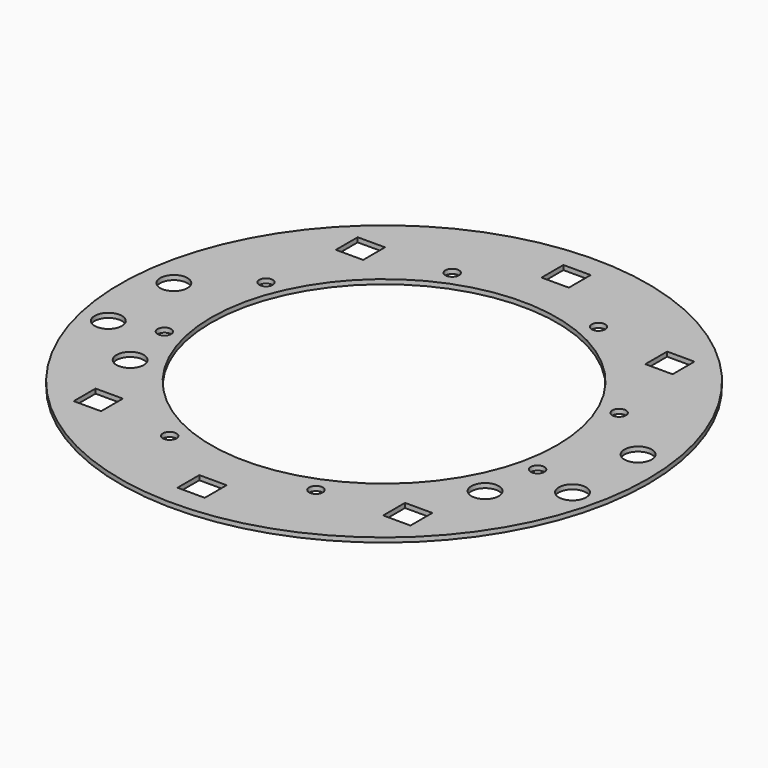
from build123d import *

# Parameters (mm, degrees)
CYLINDER531_R               = 3
CYLINDER531_DEPTH           = 7
CYLINDER530_R               = 3
CYLINDER530_DEPTH           = 7
CYLINDER725_R               = 1.5
CYLINDER725_DEPTH           = 100
CYLINDER725_PLACEMENT_ANGLE = 100
CYLINDER730_R               = 1.5
CYLINDER730_DEPTH           = 100
CYLINDER730_PLACEMENT_ANGLE = 135
CYLINDER733_R               = 1.5
CYLINDER733_DEPTH           = 100
CYLINDER731_R               = 1.5
CYLINDER731_DEPTH           = 100
CYLINDER731_PLACEMENT_ANGLE = 225
CYLINDER722_R               = 1.5
CYLINDER722_DEPTH           = 100
CYLINDER732_R               = 1.5
CYLINDER732_DEPTH           = 100
CYLINDER732_PLACEMENT_ANGLE = 55
CYLINDER729_R               = 1.5
CYLINDER729_DEPTH           = 100
CYLINDER727_R               = 1.5
CYLINDER727_DEPTH           = 100
CYLINDER727_PLACEMENT_ANGLE = 45
BOX154_W                    = 6
BOX154_H                    = 6
BOX154_DEPTH                = 10
BOX151_W                    = 6
BOX151_H                    = 6
BOX151_DEPTH                = 10
BOX155_W                    = 6
BOX155_H                    = 6
BOX155_DEPTH                = 10
BOX153_W                    = 6
BOX153_H                    = 6
BOX153_DEPTH                = 10
BOX156_W                    = 6
BOX156_H                    = 6
BOX156_DEPTH                = 10
BOX152_W                    = 6
BOX152_H                    = 6
BOX152_DEPTH                = 10
CYLINDER407_R               = 3
CYLINDER407_DEPTH           = 7
CYLINDER405_R               = 3
CYLINDER405_DEPTH           = 7
CYLINDER404_R               = 3
CYLINDER404_DEPTH           = 7
CYLINDER406_R               = 3
CYLINDER406_DEPTH           = 7
TUBE020_R                   = 58
TUBE020_R_2                 = 38
TUBE020_DEPTH               = 1


with BuildPart() as obj1:
    # Cylinder531 → Cylinder531 (new body)
    with BuildSketch(Plane(origin=(39, -21, 50), x_dir=(1, 0, 0), z_dir=(0, 0, 1))):
        Circle(CYLINDER531_R)
    extrude(amount=CYLINDER531_DEPTH)


with BuildPart() as compound705:
    # Cylinder530 → Cylinder530 (new body)
    with BuildSketch(Plane(origin=(-39, -21, 50), x_dir=(1, 0, 0), z_dir=(0, 0, 1))):
        Circle(CYLINDER530_R)
    extrude(amount=CYLINDER530_DEPTH)

    # Compound705: union obj1
    add(obj1.part)


with BuildPart() as compound705_1:
    # Compound705 placement: moved
    add(compound705.part.moved(Location((0, 0, -25))))


with BuildPart() as obj2:
    # Cylinder725 → Cylinder725 (new body)
    with BuildSketch(Plane.XY):
        Circle(CYLINDER725_R)
    extrude(amount=CYLINDER725_DEPTH)


with BuildPart() as obj2_1:
    # Cylinder725 placement: moved
    add(obj2.part.moved(Location((41.004432, -9.090464, 0))).rotate(Axis((41.004432, -9.090464, 0), (0, 0, 1)), CYLINDER725_PLACEMENT_ANGLE))


with BuildPart() as obj3:
    # Cylinder730 → Cylinder730 (new body)
    with BuildSketch(Plane.XY):
        Circle(CYLINDER730_R)
    extrude(amount=CYLINDER730_DEPTH)


with BuildPart() as obj3_1:
    # Cylinder730 placement: moved
    add(obj3.part.moved(Location((38.80294, 16.072704, 0))).rotate(Axis((38.80294, 16.072704, 0), (0, 0, 1)), CYLINDER730_PLACEMENT_ANGLE))


with BuildPart() as obj4:
    # Cylinder733 → Cylinder733 (new body)
    with BuildSketch(Plane(origin=(16.072704, 38.80294, 0), x_dir=(-1, 0, 0), z_dir=(0, 0, 1))):
        Circle(CYLINDER733_R)
    extrude(amount=CYLINDER733_DEPTH)


with BuildPart() as obj5:
    # Cylinder731 → Cylinder731 (new body)
    with BuildSketch(Plane.XY):
        Circle(CYLINDER731_R)
    extrude(amount=CYLINDER731_DEPTH)


with BuildPart() as obj5_1:
    # Cylinder731 placement: moved
    add(obj5.part.moved(Location((-16.072704, 38.80294, 0))).rotate(Axis((-16.072704, 38.80294, 0), (0, 0, 1)), CYLINDER731_PLACEMENT_ANGLE))


with BuildPart() as obj6:
    # Cylinder722 → Cylinder722 (new body)
    with BuildSketch(Plane(origin=(-38.80294, 16.072704, 0), x_dir=(0, -1, 0), z_dir=(0, 0, 1))):
        Circle(CYLINDER722_R)
    extrude(amount=CYLINDER722_DEPTH)


with BuildPart() as obj7:
    # Cylinder732 → Cylinder732 (new body)
    with BuildSketch(Plane.XY):
        Circle(CYLINDER732_R)
    extrude(amount=CYLINDER732_DEPTH)


with BuildPart() as obj7_1:
    # Cylinder732 placement: moved
    add(obj7.part.moved(Location((-41.004432, -9.090464, 0))).rotate(Axis((-41.004432, -9.090464, 0), (0, 0, -1)), CYLINDER732_PLACEMENT_ANGLE))


with BuildPart() as obj8:
    # Cylinder729 → Cylinder729 (new body)
    with BuildSketch(Plane(origin=(-16.072704, -38.80294, 0), x_dir=(1, 0, 0), z_dir=(0, 0, 1))):
        Circle(CYLINDER729_R)
    extrude(amount=CYLINDER729_DEPTH)


with BuildPart() as compound702:
    # Cylinder727 → Cylinder727 (new body)
    with BuildSketch(Plane.XY):
        Circle(CYLINDER727_R)
    extrude(amount=CYLINDER727_DEPTH)


with BuildPart() as compound702_1:
    # Cylinder727 placement: moved
    add(compound702.part.moved(Location((16.072704, -38.80294, 0))).rotate(Axis((16.072704, -38.80294, 0), (0, 0, 1)), CYLINDER727_PLACEMENT_ANGLE))

    # Compound702: union obj2, obj3, obj4, obj5, obj6, obj7, obj8
    add(obj2_1.part)
    add(obj3_1.part)
    add(obj4.part)
    add(obj5_1.part)
    add(obj6.part)
    add(obj7_1.part)
    add(obj8.part)


with BuildPart() as krychle154:
    # Box154 → Box154 (new body)
    with BuildSketch(Plane(origin=(-37, -39, 40), x_dir=(1, 0, 0), z_dir=(0, 0, 1))):
        with Locations((3, 3)):
            Rectangle(BOX154_W, BOX154_H)
    extrude(amount=BOX154_DEPTH)


with BuildPart() as krychle151:
    # Box151 → Box151 (new body)
    with BuildSketch(Plane(origin=(-3, -53, 40), x_dir=(1, 0, 0), z_dir=(0, 0, 1))):
        with Locations((3, 3)):
            Rectangle(BOX151_W, BOX151_H)
    extrude(amount=BOX151_DEPTH)


with BuildPart() as krychle155:
    # Box155 → Box155 (new body)
    with BuildSketch(Plane(origin=(31, 33, 40), x_dir=(1, 0, 0), z_dir=(0, 0, 1))):
        with Locations((3, 3)):
            Rectangle(BOX155_W, BOX155_H)
    extrude(amount=BOX155_DEPTH)


with BuildPart() as krychle153:
    # Box153 → Box153 (new body)
    with BuildSketch(Plane(origin=(-37, 33, 40), x_dir=(1, 0, 0), z_dir=(0, 0, 1))):
        with Locations((3, 3)):
            Rectangle(BOX153_W, BOX153_H)
    extrude(amount=BOX153_DEPTH)


with BuildPart() as krychle156:
    # Box156 → Box156 (new body)
    with BuildSketch(Plane(origin=(31, -39, 40), x_dir=(1, 0, 0), z_dir=(0, 0, 1))):
        with Locations((3, 3)):
            Rectangle(BOX156_W, BOX156_H)
    extrude(amount=BOX156_DEPTH)


with BuildPart() as compound316:
    # Box152 → Box152 (new body)
    with BuildSketch(Plane(origin=(-3, 47, 40), x_dir=(1, 0, 0), z_dir=(0, 0, 1))):
        with Locations((3, 3)):
            Rectangle(BOX152_W, BOX152_H)
    extrude(amount=BOX152_DEPTH)

    # Compound316: union Krychle154, Krychle151, Krychle155, Krychle153, Krychle156
    add(krychle154.part)
    add(krychle151.part)
    add(krychle155.part)
    add(krychle153.part)
    add(krychle156.part)


with BuildPart() as compound316_1:
    # Compound316 placement: moved
    add(compound316.part.moved(Location((0, 0, -18))))


with BuildPart() as obj9:
    # Cylinder407 → Cylinder407 (new body)
    with BuildSketch(Plane(origin=(51, -12, 50), x_dir=(1, 0, 0), z_dir=(0, 0, 1))):
        Circle(CYLINDER407_R)
    extrude(amount=CYLINDER407_DEPTH)


with BuildPart() as obj10:
    # Cylinder405 → Cylinder405 (new body)
    with BuildSketch(Plane(origin=(51, 6, 50), x_dir=(1, 0, 0), z_dir=(0, 0, 1))):
        Circle(CYLINDER405_R)
    extrude(amount=CYLINDER405_DEPTH)


with BuildPart() as obj11:
    # Cylinder404 → Cylinder404 (new body)
    with BuildSketch(Plane(origin=(-51, 6, 50), x_dir=(1, 0, 0), z_dir=(0, 0, 1))):
        Circle(CYLINDER404_R)
    extrude(amount=CYLINDER404_DEPTH)


with BuildPart() as compound312:
    # Cylinder406 → Cylinder406 (new body)
    with BuildSketch(Plane(origin=(-51, -12, 50), x_dir=(1, 0, 0), z_dir=(0, 0, 1))):
        Circle(CYLINDER406_R)
    extrude(amount=CYLINDER406_DEPTH)

    # Compound312: union obj9, obj10, obj11
    add(obj9.part)
    add(obj10.part)
    add(obj11.part)


with BuildPart() as compound312_1:
    # Compound312 placement: moved
    add(compound312.part.moved(Location((0, 0, -25))))


with BuildPart() as cut324:
    # Tube020 → Tube020 (new body)
    with BuildSketch(Plane.XY.offset(31)):
        Circle(TUBE020_R)
        Circle(TUBE020_R_2, mode=Mode.SUBTRACT)
    extrude(amount=TUBE020_DEPTH)

    # Cut161: cut Compound312
    add(compound312_1.part, mode=Mode.SUBTRACT)

    # Cut163: cut Compound316
    add(compound316_1.part, mode=Mode.SUBTRACT)

    # Cut322: cut Compound702
    add(compound702_1.part, mode=Mode.SUBTRACT)

    # Cut324: cut Compound705
    add(compound705_1.part, mode=Mode.SUBTRACT)


solid = cut324.part
